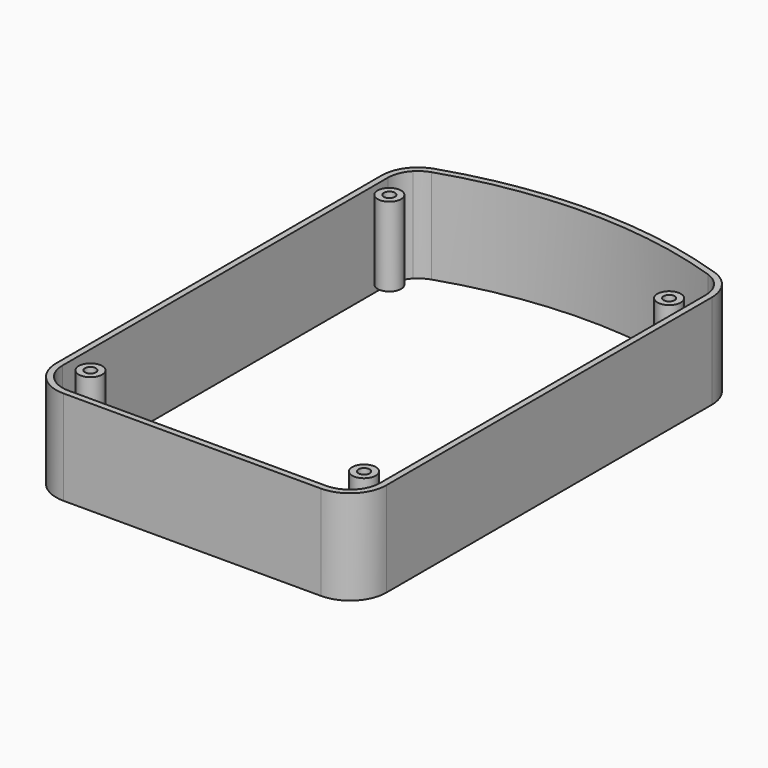
from build123d import *

# Parameters (mm, degrees)
F0_R          = 4.75
F0_R_2        = 2.25
F2_DEPTH      = 32
F3_DEPTH      = 32
F3_DEPTH_BACK = 6.25


with BuildPart() as f2:
    # F0 (on Top) → F2 (new body, through all)
    with BuildSketch(Plane.XY):
        with Locations((-56.6, 77.75)):
            Circle(F0_R)
        with Locations((-56.6, 77.75)):
            Circle(F0_R_2, mode=Mode.SUBTRACT)
        with Locations((56.6, 77.75)):
            Circle(F0_R)
        with Locations((56.6, 77.75)):
            Circle(F0_R_2, mode=Mode.SUBTRACT)
        with Locations((55.35, -75)):
            Circle(F0_R)
        with Locations((55.35, -75)):
            Circle(F0_R_2, mode=Mode.SUBTRACT)
        with Locations((-55.35, -75)):
            Circle(F0_R)
        with Locations((-55.35, -75)):
            Circle(F0_R_2, mode=Mode.SUBTRACT)
    extrude(amount=F2_DEPTH)


with BuildPart() as f3:
    # F0 (on Top) → F3 (new body, two sides)
    with BuildSketch(Plane.XY) as f3_sk:
        with BuildLine():
            ThreePointArc((66.8, 86.569375), (64.021394, 95.169978), (56.736005, 100.519194))
            ThreePointArc((56.736005, 100.519194), (0, 109.7), (-56.736005, 100.519194))
            ThreePointArc((-56.736005, 100.519194), (-64.021394, 95.169978), (-66.8, 86.569375))
            Line((-66.8, 86.569375), (-66.8, -78))
            ThreePointArc((-66.8, -78), (-62.49447, -88.39447), (-52.1, -92.7))
            Line((-52.1, -92.7), (52.1, -92.7))
            ThreePointArc((52.1, -92.7), (62.49447, -88.39447), (66.8, -78))
            Line((66.8, -78), (66.8, 86.569375))
        make_face()
        with BuildLine():
            ThreePointArc((-64.3, 86.569375), (-63.42309, 91.11114), (-60.918422, 95))
            ThreePointArc((-60.918422, 95), (-58.625518, 96.877509), (-55.947569, 98.146776))
            ThreePointArc((-55.947569, 98.146776), (0, 107.2), (55.947569, 98.146776))
            ThreePointArc((55.947569, 98.146776), (58.625518, 96.877509), (60.918422, 95))
            ThreePointArc((60.918422, 95), (63.42309, 91.11114), (64.3, 86.569375))
            Line((64.3, 86.569375), (64.3, -78))
            ThreePointArc((64.3, -78), (60.726703, -86.626703), (52.1, -90.2))
            Line((52.1, -90.2), (-52.1, -90.2))
            ThreePointArc((-52.1, -90.2), (-60.726703, -86.626703), (-64.3, -78))
            Line((-64.3, -78), (-64.3, 86.569375))
        make_face(mode=Mode.SUBTRACT)
    extrude(amount=F3_DEPTH)
    extrude(f3_sk.sketch, amount=-F3_DEPTH_BACK)


solid = Compound([f2.part, f3.part])
